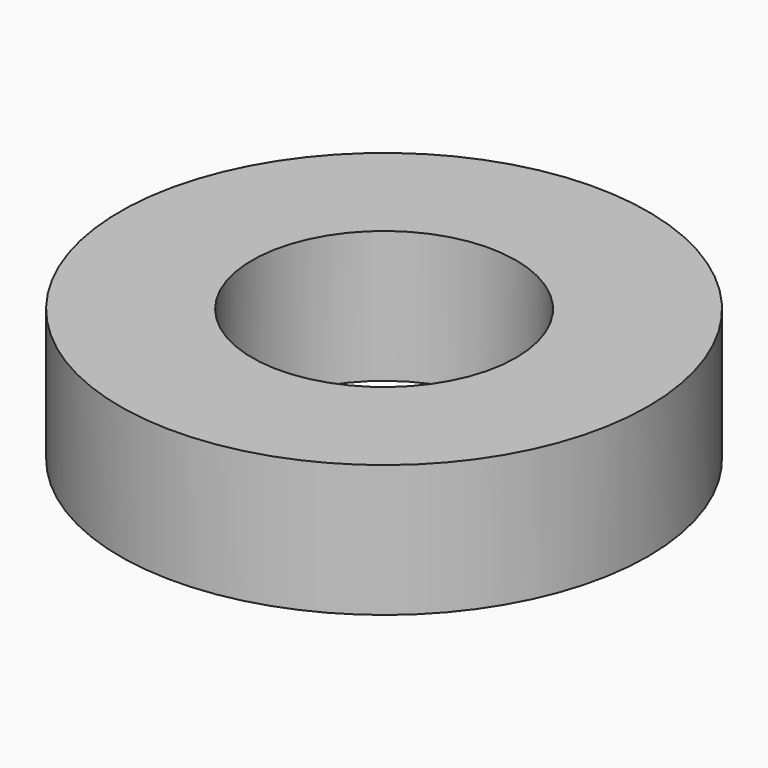
from build123d import *

# Parameters (mm, degrees)
CYLINDER353_R     = 2
CYLINDER353_DEPTH = 2
CYLINDER354_R     = 4
CYLINDER354_DEPTH = 2


with BuildPart() as cylinder353:
    # Cylinder353 → Cylinder353 (new body)
    with BuildSketch(Plane.XY):
        Circle(CYLINDER353_R)
    extrude(amount=CYLINDER353_DEPTH)


with BuildPart() as spacer3:
    # Cylinder354 → Cylinder354 (new body)
    with BuildSketch(Plane.XY):
        Circle(CYLINDER354_R)
    extrude(amount=CYLINDER354_DEPTH)

    # Cut371: cut Cylinder353
    add(cylinder353.part, mode=Mode.SUBTRACT)


with BuildPart() as spacer3_1:
    # Cut371 placement: moved
    add(spacer3.part.moved(Location((-47, -19, 57))))


solid = spacer3_1.part
